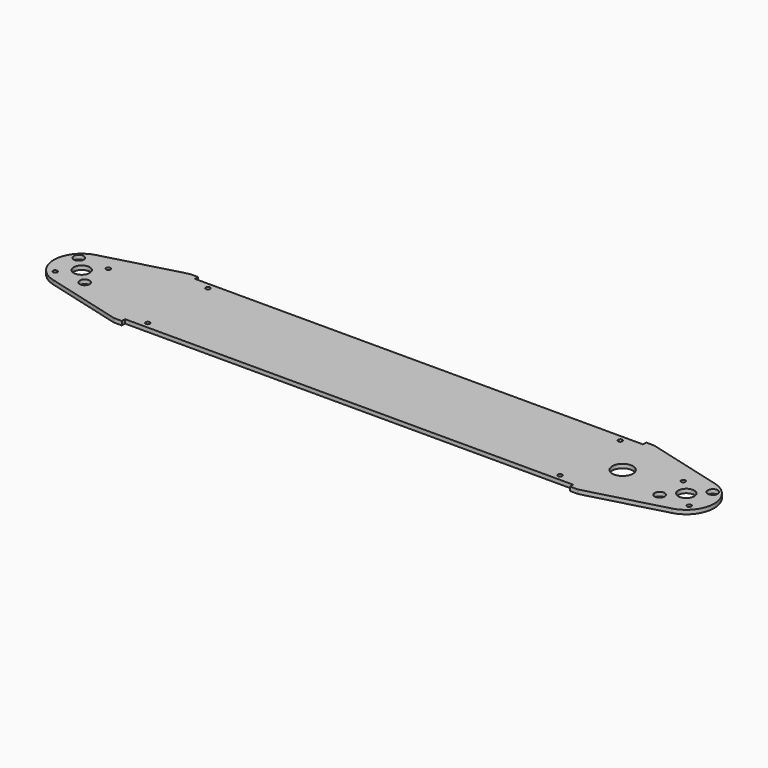
from build123d import *

# Parameters (mm, degrees)
F0_R     = 1.7272
F0_R_2   = 3.96875
F0_R_3   = 6.35
F0_R_4   = 8.221183
F1_DEPTH = 3.175


with BuildPart() as f1:
    # F0 (on Top) → F1 (new body)
    with BuildSketch(Plane.XY):
        with BuildLine():
            Line((-426.540354, 38.03015), (-488.352253, 21.467701))
            ThreePointArc((-488.352253, 21.467701), (-504.825, 0), (-488.352253, -21.467701))
            Line((-488.352253, -21.467701), (-426.540354, -38.03015))
            Line((-426.540354, -38.03015), (-420.190354, -38.03015))
            Line((-420.190354, -38.03015), (-420.190354, -34.85515))
            Line((-420.190354, -34.85515), (-62.409646, -34.85515))
            Line((-62.409646, -34.85515), (-62.409646, -38.03015))
            Line((-62.409646, -38.03015), (-56.059646, -38.03015))
            Line((-56.059646, -38.03015), (5.752253, -21.467701))
            ThreePointArc((5.752253, -21.467701), (22.225, 0), (5.752253, 21.467701))
            Line((5.752253, 21.467701), (-56.059646, 38.03015))
            Line((-56.059646, 38.03015), (-62.409646, 38.03015))
            Line((-62.409646, 38.03015), (-62.409646, 34.85515))
            Line((-62.409646, 34.85515), (-420.190354, 34.85515))
            Line((-420.190354, 34.85515), (-420.190354, 38.03015))
            Line((-420.190354, 38.03015), (-426.540354, 38.03015))
        make_face()
        with Locations((-405.902854, -30.09265)):
            Circle(F0_R, mode=Mode.SUBTRACT)
        with Locations((-494.386586, -11.786586)):
            Circle(F0_R, mode=Mode.SUBTRACT)
        with Locations((-470.813414, -11.786586)):
            Circle(F0_R_2, mode=Mode.SUBTRACT)
        with Locations((-76.697146, -30.09265)):
            Circle(F0_R, mode=Mode.SUBTRACT)
        with Locations((-11.786586, -11.786586)):
            Circle(F0_R_2, mode=Mode.SUBTRACT)
        with Locations((11.786586, -11.786586)):
            Circle(F0_R, mode=Mode.SUBTRACT)
        with Locations((-482.6, 0)):
            Circle(F0_R_3, mode=Mode.SUBTRACT)
        with Locations((-494.386586, 11.786586)):
            Circle(F0_R_2, mode=Mode.SUBTRACT)
        with Locations((-470.813414, 11.786586)):
            Circle(F0_R, mode=Mode.SUBTRACT)
        with Locations((-405.902854, 30.09265)):
            Circle(F0_R, mode=Mode.SUBTRACT)
        with Locations((-50.8, 0)):
            Circle(F0_R_4, mode=Mode.SUBTRACT)
        Circle(F0_R_3, mode=Mode.SUBTRACT)
        with Locations((-11.786586, 11.786586)):
            Circle(F0_R, mode=Mode.SUBTRACT)
        with Locations((11.786586, 11.786586)):
            Circle(F0_R_2, mode=Mode.SUBTRACT)
        with Locations((-76.697146, 30.09265)):
            Circle(F0_R, mode=Mode.SUBTRACT)
    extrude(amount=F1_DEPTH)


solid = f1.part
